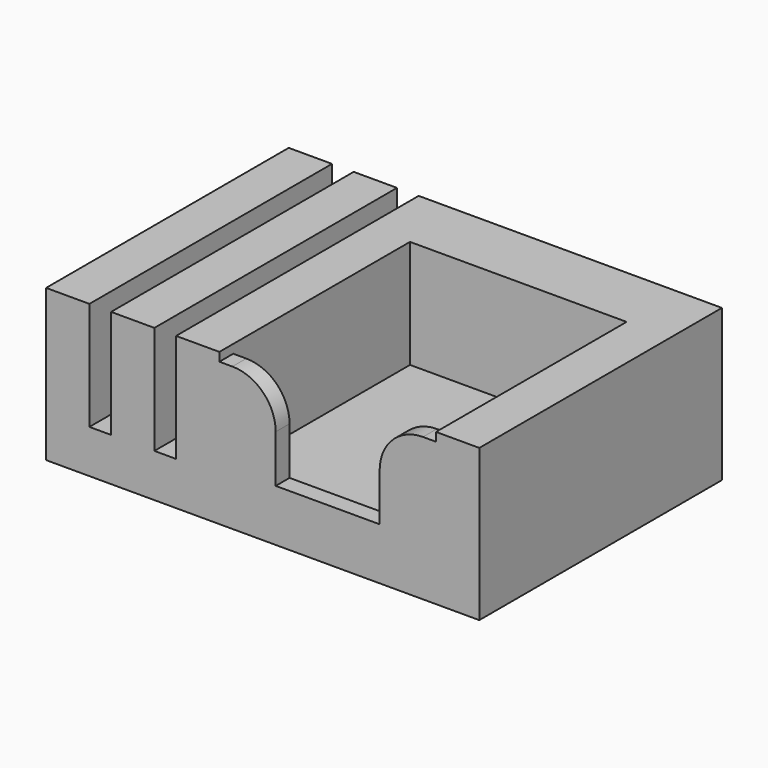
from build123d import *

# Parameters (mm, degrees)
F0_W     = 127
F0_H     = 12.7
F1_DEPTH = 88.9
F2_W     = 12.7
F2_H     = 31.75
F3_DEPTH = 88.9
F4_W     = 16.51
F4_H     = 29.21
F5_DEPTH = 5.08
F6_W     = 63.5
F6_H     = 31.75
F7_DEPTH = 19.05
F8_W     = 30.48
F8_H     = 2.54
F9_DEPTH = 5.08
F10_R    = 12.7


with BuildPart() as f1:
    # F0 (on Front) → F1 (new body)
    with BuildSketch(Plane.XZ):
        with Locations((63.5, 6.35)):
            Rectangle(F0_W, F0_H)
    extrude(amount=F1_DEPTH)

    # F2 (on face) → F3 (join)
    with BuildSketch(Plane.XZ.offset(88.9)):
        Polygon((0, 44.45), (0, 12.7), (6.35, 12.7), (12.7, 12.7), (12.7, 44.45), (6.35, 44.45), align=None)
        with Locations((25.4, 28.575)):
            Rectangle(F2_W, F2_H)
        with Locations((44.45, 28.575)):
            Rectangle(F2_W, F2_H)
        with Locations((120.65, 28.575)):
            Rectangle(F2_W, F2_H)
    extrude(amount=-F3_DEPTH)

    # F4 (on face) → F5 (join)
    with BuildSketch(Plane.XZ.offset(88.9)):
        with Locations((59.055, 27.305)):
            Rectangle(F4_W, F4_H)
        with Locations((106.045, 27.305)):
            Rectangle(F4_W, F4_H)
    extrude(amount=-F5_DEPTH)

    # F6 (on face) → F7 (join)
    with BuildSketch(Plane(origin=(0, 0, 0), x_dir=(-1, 0, 0), z_dir=(0, 1, 0))):
        with Locations((-82.55, 28.575)):
            Rectangle(F6_W, F6_H)
    extrude(amount=-F7_DEPTH)

    # F8 (on face) → F9 (join)
    with BuildSketch(Plane.XZ.offset(88.9)):
        with Locations((82.55, 13.97)):
            Rectangle(F8_W, F8_H)
    extrude(amount=-F9_DEPTH)

    # F10
    f10_edges = [f1.edges().sort_by_distance(p)[0] for p in [
        (67.31, -86.36, 41.91),
        (97.79, -86.36, 41.91),
    ]]
    fillet(f10_edges, radius=F10_R)


solid = f1.part
